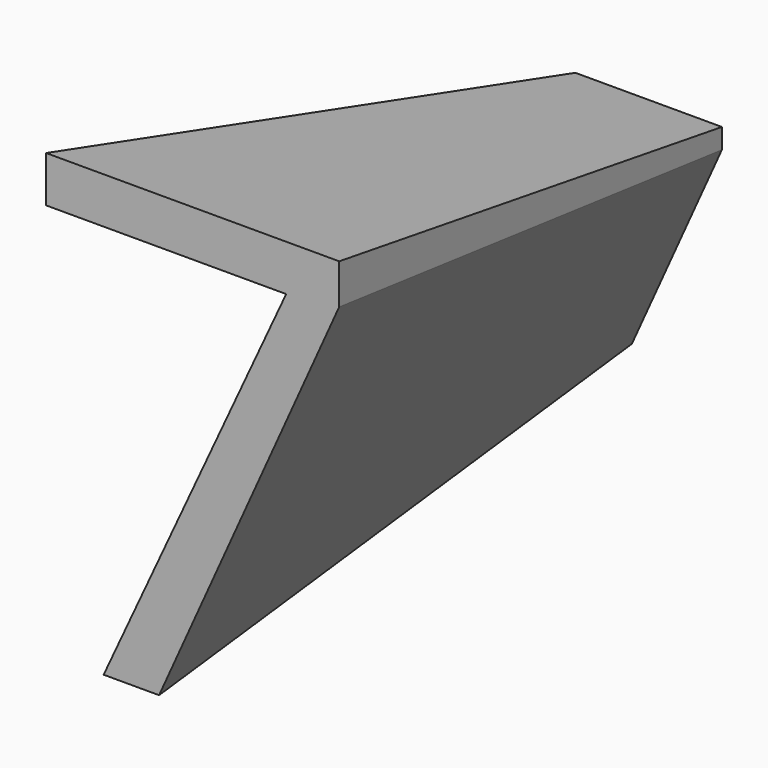
from build123d import *


with BuildPart() as f3:
    # F0 (on Front) → F3 section 0
    with BuildSketch(Plane.XZ):
        Polygon((2.3678315957, 3.0536655475), (-1.7402413209, -5.8243726469), (-0.4924114598, -5.8243726469), (3.5614079846, 3.1882141586), (3.5614079846, 4.0909919364), (-3.0358142376, 4.0909919364), (-3.0358142376, 3.0536655475), align=None)
    # F2 (on offset) → F3 section 1
    with BuildSketch(Plane.XZ.offset(25)):
        Polygon((-4.2686631944, -10), (-1.7730034722, -10), (6.3346354167, 8.0251736111), (6.3346354167, 9.8307291667), (-6.8598090278, 9.8307291667), (-6.8598090278, 7.7560763889), (3.9474826389, 7.7560763889), align=None)
    loft()


solid = f3.part
